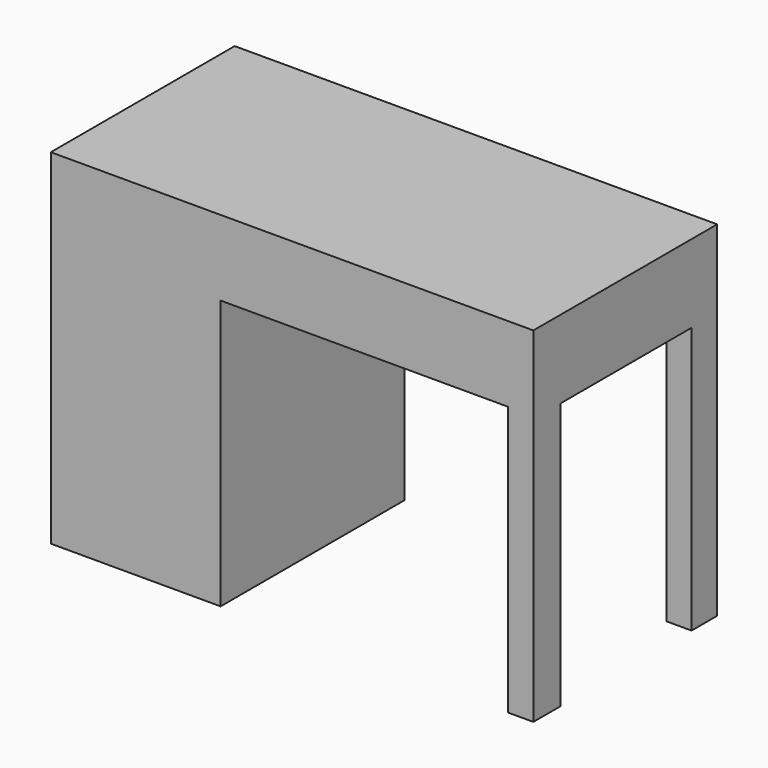
from build123d import *

# Parameters (mm, degrees)
F0_W     = 1050
F0_H     = 500
F1_DEPTH = 750
F2_W     = 625.638008
F2_H     = 585.840762
F3_DEPTH = 500
F4_W     = 356.15398
F4_H     = 580.154359
F5_DEPTH = 54.955602


with BuildPart() as f1:
    # F0 (on Top) → F1 (new body)
    with BuildSketch(Plane.XY):
        with Locations((-525, 250)):
            Rectangle(F0_W, F0_H)
    extrude(amount=F1_DEPTH)

    # F2 (on face) → F3 (cut, through all)
    with BuildSketch(Plane.XZ):
        with Locations((-367.774606, 292.920381)):
            Rectangle(F2_W, F2_H)
    extrude(amount=-F3_DEPTH, mode=Mode.SUBTRACT)

    # F4 (on face) → F5 (cut, through all)
    with BuildSketch(Plane.YZ):
        with Locations((252.290092, 290.077179)):
            Rectangle(F4_W, F4_H)
    extrude(amount=-F5_DEPTH, mode=Mode.SUBTRACT)


solid = f1.part
